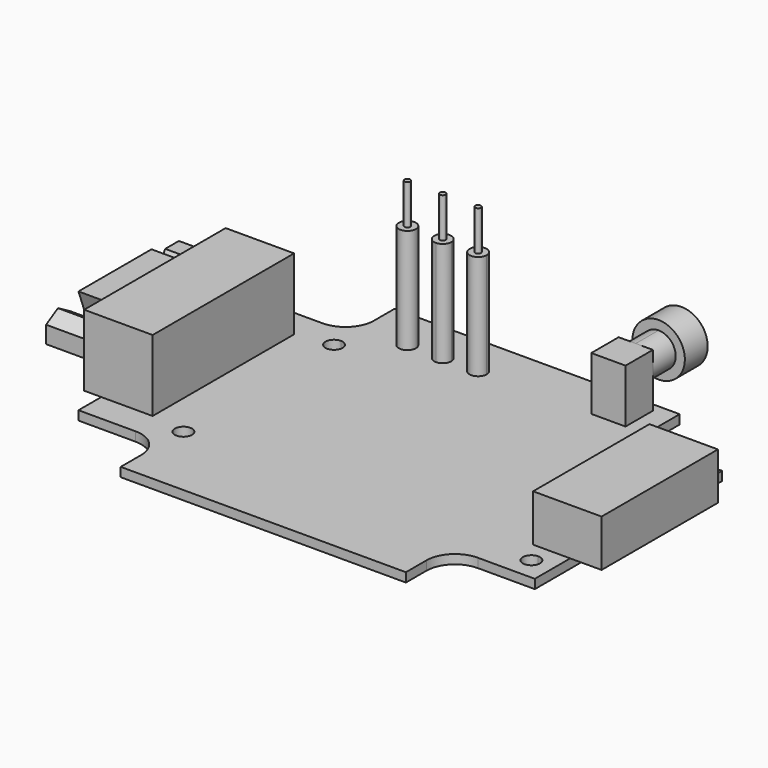
from build123d import *

# Parameters (mm, degrees)
F1_DEPTH  = 1.6
F3_DEPTH  = 8.24
F5_DEPTH  = 12.5
F7_DEPTH  = 7
F9_DEPTH  = 2
F10_R     = 1.5
F11_DEPTH = 18.4
F12_R     = 0.5
F13_DEPTH = 7
F14_R     = 0.5
F15_DEPTH = 7
F17_DEPTH = 1.6
F20_R     = 5
F22_DEPTH = 9.4
F24_DEPTH = 7.5
F25_R     = 4.6
F26_DEPTH = 2.5
F27_R     = 0.5
F28_DEPTH = 7


with BuildPart() as f1:
    # F0 (on Top) → F1 (new body)
    with BuildSketch(Plane.XY):
        Polygon((-25, 20.5), (-40, 20.5), (-40, -20.5), (-25, -20.5), (0, -20.5), (25, -20.5), (40, -20.5), (40, 20.5), (25, 20.5), (0, 20.5), align=None)
        Polygon((-25, 30), (-25, 20.5), (0, 20.5), (25, 20.5), (25, 30), align=None)
        Polygon((0, -20.5), (-25, -20.5), (-25, -30), (25, -30), (25, -20.5), align=None)
    extrude(amount=F1_DEPTH)

    # F2 (on face) → F3 (join)
    with BuildSketch(Plane.XY.offset(1.6)):
        Polygon((40, -12.75), (40, 0), (40, 12.75), (33.5, 12.75), (33.5, -12.75), align=None)
        Polygon((40, 12.75), (40, 0), (40, -12.75), (45.5, -12.75), (45.5, 12.75), align=None)
    extrude(amount=F3_DEPTH)

    # F4 (on face) → F5 (join)
    with BuildSketch(Plane.XY.offset(1.6)):
        Polygon((-40, -15.5), (-40, 0), (-40, 15.5), (-43, 15.5), (-43, -15.5), align=None)
        Polygon((-40, 15.5), (-40, 0), (-40, -15.5), (-31, -15.5), (-31, 15.5), align=None)
    extrude(amount=F5_DEPTH)

    # F6 (on face) → F7 (join)
    with BuildSketch(Plane(origin=(-43, 0, 0), x_dir=(0, -1, 0), z_dir=(-1, 0, 0))):
        Polygon((0, 11.6), (0, 3.6), (5, 3.6), (8, 11.6), align=None)
        Polygon((-5, 3.6), (0, 3.6), (0, 11.6), (-8, 11.6), align=None)
        Polygon((-14, 10.4480762114), (-15.5, 7.85), (-14, 5.2519237886), (-11, 5.2519237886), (-9.5, 7.85), (-11, 10.4480762114), align=None)
        Polygon((15.0980762114, 9.35), (12.5, 10.85), (9.9019237886, 9.35), (9.9019237886, 6.35), (12.5, 4.85), (15.0980762114, 6.35), (15.0980762114, 7.85), align=None)
    extrude(amount=F7_DEPTH)

    # F8 (on face) → F9 (cut)
    with BuildSketch(Plane.XY.offset(1.6)):
        with BuildLine():
            ThreePointArc((37.7, 16.5), (37.2606601718, 17.5606601718), (36.2, 18))
            Line((36.2, 18), (36.2, 16.5))
            Line((36.2, 16.5), (36.2, 15))
            ThreePointArc((36.2, 15), (37.2606601718, 15.4393398282), (37.7, 16.5))
        make_face()
        with BuildLine():
            ThreePointArc((-23.3, -16.5), (-25.8606601718, -15.4393398282), (-24.8, -18))
            ThreePointArc((-24.8, -18), (-23.7393398282, -17.5606601718), (-23.3, -16.5))
        make_face()
        with BuildLine():
            ThreePointArc((37.7, -16.5), (37.2606601718, -15.4393398282), (36.2, -15))
            Line((36.2, -15), (36.2, -16.5))
            Line((36.2, -16.5), (36.2, -18))
            ThreePointArc((36.2, -18), (37.2606601718, -17.5606601718), (37.7, -16.5))
        make_face()
        with BuildLine():
            Line((36.2, -16.5), (36.2, -15))
            ThreePointArc((36.2, -15), (34.7, -16.5), (36.2, -18))
            Line((36.2, -18), (36.2, -16.5))
        make_face()
        with BuildLine():
            Line((36.2, 16.5), (36.2, 18))
            ThreePointArc((36.2, 18), (34.7, 16.5), (36.2, 15))
            Line((36.2, 15), (36.2, 16.5))
        make_face()
        with BuildLine():
            ThreePointArc((-24.8, 18), (-25.8606601718, 15.4393398282), (-23.3, 16.5))
            ThreePointArc((-23.3, 16.5), (-23.7393398282, 17.5606601718), (-24.8, 18))
        make_face()
    extrude(amount=-F9_DEPTH, mode=Mode.SUBTRACT)

    # F10 (on face) → F11 (join)
    with BuildSketch(Plane.XY.offset(1.6)):
        with BuildLine():
            ThreePointArc((-10.7, 21.2), (-9.6393398282, 21.6393398282), (-9.2, 22.7))
            Line((-9.2, 22.7), (-10.7, 22.7))
            Line((-10.7, 22.7), (-10.7, 21.2))
        make_face()
        with BuildLine():
            ThreePointArc((-4.5, 24.2), (-5.5606601718, 23.7606601718), (-6, 22.7))
            Line((-6, 22.7), (-4.5, 22.7))
            Line((-4.5, 22.7), (-4.5, 24.2))
        make_face()
        with BuildLine():
            Line((-4.5, 22.7), (-6, 22.7))
            ThreePointArc((-6, 22.7), (-4.5, 21.2), (-3, 22.7))
            ThreePointArc((-3, 22.7), (-3.4393398282, 23.7606601718), (-4.5, 24.2))
            Line((-4.5, 24.2), (-4.5, 22.7))
        make_face()
        with BuildLine():
            Line((-10.7, 22.7), (-9.2, 22.7))
            ThreePointArc((-9.2, 22.7), (-10.7, 24.2), (-12.2, 22.7))
            Line((-12.2, 22.7), (-10.7, 22.7))
        make_face()
        with Locations((-16.9, 22.7)):
            Circle(F10_R)
        with BuildLine():
            Line((-10.7, 21.2), (-10.7, 22.7))
            Line((-10.7, 22.7), (-12.2, 22.7))
            ThreePointArc((-12.2, 22.7), (-11.7606601718, 21.6393398282), (-10.7, 21.2))
        make_face()
    extrude(amount=F11_DEPTH)

    # F12 (on face) → F13 (join)
    with BuildSketch(Plane.XY.offset(20)):
        with Locations((-10.7, 22.7)):
            Circle(F12_R)
    extrude(amount=F13_DEPTH)

    # F14 (on face) → F15 (join)
    with BuildSketch(Plane.XY.offset(20)):
        with Locations((-4.5, 22.7)):
            Circle(F14_R)
    extrude(amount=F15_DEPTH)

    # F20
    f20_edges = [f1.edges().sort_by_distance(p)[0] for p in [
        (-25, 20.5, 0.8),
        (25, 20.5, 0.8),
        (25, -20.5, 0.8),
        (-25, -20.5, 0.8),
    ]]
    fillet(f20_edges, radius=F20_R)

    # F21 (on face) → F22 (join)
    with BuildSketch(Plane.XY.offset(1.6)):
        Polygon((21.5, 28.5), (18.5, 28.5), (15.5, 28.5), (15.5, 22.5), (21.5, 22.5), align=None)
    extrude(amount=F22_DEPTH)

    # F23 (on face) → F24 (join)
    with BuildSketch(Plane(origin=(0, 28.5, 0), x_dir=(-1, 0, 0), z_dir=(0, 1, 0))):
        with BuildLine():
            ThreePointArc((-18.5, 11), (-20.6213203436, 5.8786796564), (-15.5, 8))
            ThreePointArc((-15.5, 8), (-16.3786796564, 10.1213203436), (-18.5, 11))
        make_face()
    extrude(amount=F24_DEPTH)

    # F25 (on face) → F26 (join, symmetric)
    with BuildSketch(Plane(origin=(0, 36, 0), x_dir=(-1, 0, 0), z_dir=(0, 1, 0))):
        with Locations((-18.5, 8)):
            Circle(F25_R)
    extrude(amount=F26_DEPTH, both=True)

    # F27 (on face) → F28 (join)
    with BuildSketch(Plane.XY.offset(20)):
        with Locations((-16.9, 22.7)):
            Circle(F27_R)
    extrude(amount=F28_DEPTH)


with BuildPart() as f17:
    # F16 (on face) → F17 (new body)
    with BuildSketch(Plane.XY.offset(1.6)):
        Polygon((-57.5, 30), (-57.5, 20.5), (-32.5, 20.5), (-7.5, 20.5), (-7.5, 30), align=None)
    extrude(amount=-F17_DEPTH)


with BuildPart() as f17b:
    # F16 (on face) → F17, piece 2 (new body)
    with BuildSketch(Plane.XY.offset(1.6)):
        Polygon((-7.5, -20.5), (-32.5, -20.5), (-57.5, -20.5), (-57.5, -31.8096540868), (-7.5, -31.8096540868), align=None)
    extrude(amount=-F17_DEPTH)


solid = f1.part
